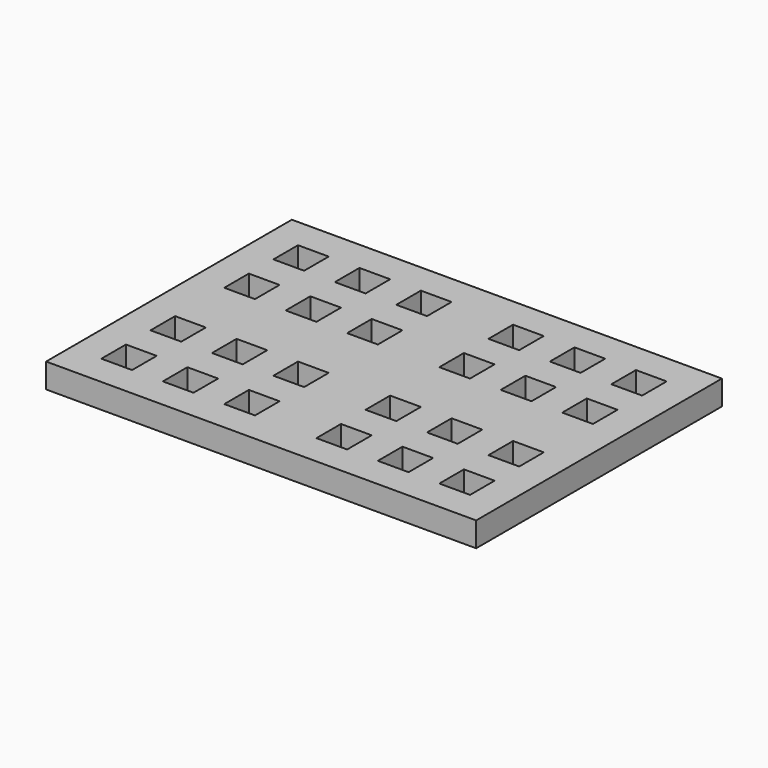
from build123d import *

# Parameters (mm, degrees)
F0_W     = 177.8
F0_H     = 127
F0_W_2   = 12.7
F0_H_2   = 12.7
F1_DEPTH = 10.16


with BuildPart() as f1:
    # F0 (on Top) → F1 (new body)
    with BuildSketch(Plane.XY):
        Rectangle(F0_W, F0_H)
        with Locations((-69.85, -44.449999)):
            Rectangle(F0_W_2, F0_H_2, mode=Mode.SUBTRACT)
        with Locations((-44.45, -44.45)):
            Rectangle(F0_W_2, F0_H_2, mode=Mode.SUBTRACT)
        with Locations((-19.05, -44.45)):
            Rectangle(F0_W_2, F0_H_2, mode=Mode.SUBTRACT)
        with Locations((-69.85, -19.049999)):
            Rectangle(F0_W_2, F0_H_2, mode=Mode.SUBTRACT)
        with Locations((-44.45, -19.05)):
            Rectangle(F0_W_2, F0_H_2, mode=Mode.SUBTRACT)
        with Locations((-19.05, -19.05)):
            Rectangle(F0_W_2, F0_H_2, mode=Mode.SUBTRACT)
        with Locations((19.05, -44.45)):
            Rectangle(F0_W_2, F0_H_2, mode=Mode.SUBTRACT)
        with Locations((44.45, -44.45)):
            Rectangle(F0_W_2, F0_H_2, mode=Mode.SUBTRACT)
        with Locations((69.865507, -44.449999)):
            Rectangle(F0_W_2, F0_H_2, mode=Mode.SUBTRACT)
        with Locations((19.05, -19.05)):
            Rectangle(F0_W_2, F0_H_2, mode=Mode.SUBTRACT)
        with Locations((44.45, -19.05)):
            Rectangle(F0_W_2, F0_H_2, mode=Mode.SUBTRACT)
        with Locations((69.865507, -19.049999)):
            Rectangle(F0_W_2, F0_H_2, mode=Mode.SUBTRACT)
        with Locations((-69.85, 19.05)):
            Rectangle(F0_W_2, F0_H_2, mode=Mode.SUBTRACT)
        with Locations((-44.45, 19.05)):
            Rectangle(F0_W_2, F0_H_2, mode=Mode.SUBTRACT)
        with Locations((-19.05, 19.05)):
            Rectangle(F0_W_2, F0_H_2, mode=Mode.SUBTRACT)
        with Locations((-69.85, 44.45)):
            Rectangle(F0_W_2, F0_H_2, mode=Mode.SUBTRACT)
        with Locations((-44.45, 44.45)):
            Rectangle(F0_W_2, F0_H_2, mode=Mode.SUBTRACT)
        with Locations((-19.05, 44.45)):
            Rectangle(F0_W_2, F0_H_2, mode=Mode.SUBTRACT)
        with Locations((19.05, 19.05)):
            Rectangle(F0_W_2, F0_H_2, mode=Mode.SUBTRACT)
        with Locations((44.45, 19.05)):
            Rectangle(F0_W_2, F0_H_2, mode=Mode.SUBTRACT)
        with Locations((69.865507, 19.050001)):
            Rectangle(F0_W_2, F0_H_2, mode=Mode.SUBTRACT)
        with Locations((19.05, 44.45)):
            Rectangle(F0_W_2, F0_H_2, mode=Mode.SUBTRACT)
        with Locations((44.45, 44.45)):
            Rectangle(F0_W_2, F0_H_2, mode=Mode.SUBTRACT)
        with Locations((69.865507, 44.450001)):
            Rectangle(F0_W_2, F0_H_2, mode=Mode.SUBTRACT)
    extrude(amount=F1_DEPTH)


solid = f1.part
